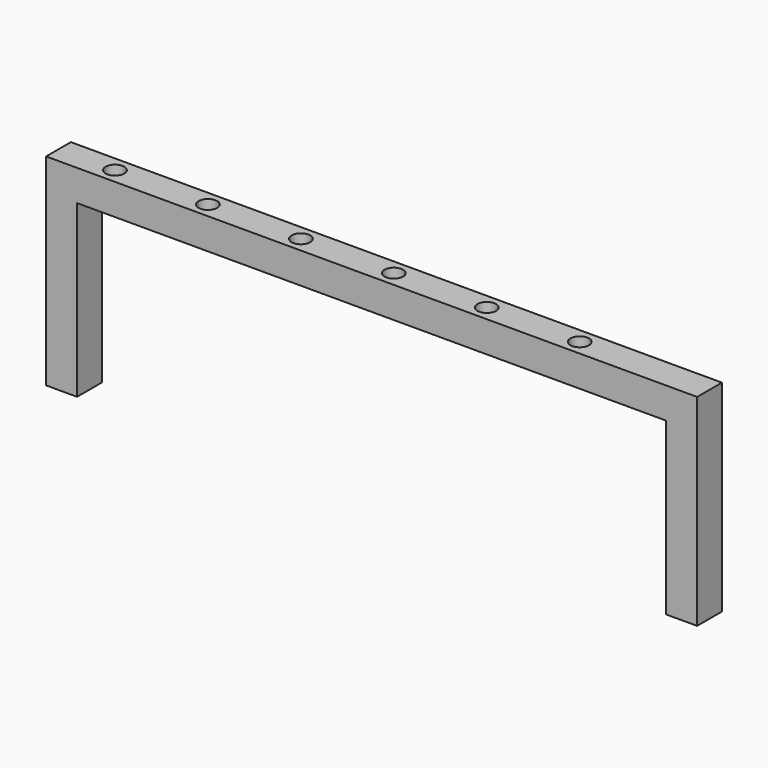
from build123d import *

# Parameters (mm, degrees)
F1_W     = 10
F1_H     = 10
F4_DEPTH = 25


with BuildPart() as f2:
    # F2: sweep along a path in F0
    with BuildLine(Plane.XZ) as f2_path:
        Line((-59.4845563173, 0), (-59.4845563173, 60))
        Line((-59.4845563173, 60), (140.5154436827, 60))
        Line((140.5154436827, 60), (140.5154436827, 0))
    # F1 (on Top) → F2 (sweep)
    with BuildSketch(Plane.XY):
        with Locations((-59.5397613943, 0)):
            Rectangle(F1_W, F1_H)
    sweep(path=f2_path.line, transition=Transition.RIGHT)

    # F3 (on face) → F4 (cut)
    with BuildSketch(Plane(origin=(0, 0, 55.0552050769), x_dir=(1, 0, 0), z_dir=(0, 0, -1))):
        with BuildLine():
            ThreePointArc((-43.3104993105, 0), (-46.3104993105, 3), (-49.3104993105, 0))
            Line((-49.3104993105, 0), (-43.3104993105, 0))
        make_face()
        with BuildLine():
            ThreePointArc((106.6895006895, 0), (103.6895006895, 3), (100.6895006895, 0))
            Line((100.6895006895, 0), (106.6895006895, 0))
        make_face()
        with BuildLine():
            Line((106.6895006895, 0), (100.6895006895, 0))
            ThreePointArc((100.6895006895, 0), (103.6895006895, -3), (106.6895006895, 0))
        make_face()
        with BuildLine():
            ThreePointArc((76.6895006895, 0), (73.6895006895, 3), (70.6895006895, 0))
            Line((70.6895006895, 0), (76.6895006895, 0))
        make_face()
        with BuildLine():
            Line((76.6895006895, 0), (70.6895006895, 0))
            ThreePointArc((70.6895006895, 0), (73.6895006895, -3), (76.6895006895, 0))
        make_face()
        with BuildLine():
            ThreePointArc((46.6895006895, 0), (43.6895006895, 3), (40.6895006895, 0))
            Line((40.6895006895, 0), (46.6895006895, 0))
        make_face()
        with BuildLine():
            Line((46.6895006895, 0), (40.6895006895, 0))
            ThreePointArc((40.6895006895, 0), (43.6895006895, -3), (46.6895006895, 0))
        make_face()
        with BuildLine():
            ThreePointArc((16.6895006895, 0), (13.6895006895, 3), (10.6895006895, 0))
            Line((10.6895006895, 0), (16.6895006895, 0))
        make_face()
        with BuildLine():
            Line((16.6895006895, 0), (10.6895006895, 0))
            ThreePointArc((10.6895006895, 0), (13.6895006895, -3), (16.6895006895, 0))
        make_face()
        with BuildLine():
            ThreePointArc((-13.3104993105, 0), (-16.3104993105, 3), (-19.3104993105, 0))
            Line((-19.3104993105, 0), (-13.3104993105, 0))
        make_face()
        with BuildLine():
            Line((-13.3104993105, 0), (-19.3104993105, 0))
            ThreePointArc((-19.3104993105, 0), (-16.3104993105, -3), (-13.3104993105, 0))
        make_face()
        with BuildLine():
            Line((-43.3104993105, 0), (-49.3104993105, 0))
            ThreePointArc((-49.3104993105, 0), (-46.3104993105, -3), (-43.3104993105, 0))
        make_face()
    extrude(amount=-F4_DEPTH, mode=Mode.SUBTRACT)


solid = f2.part
